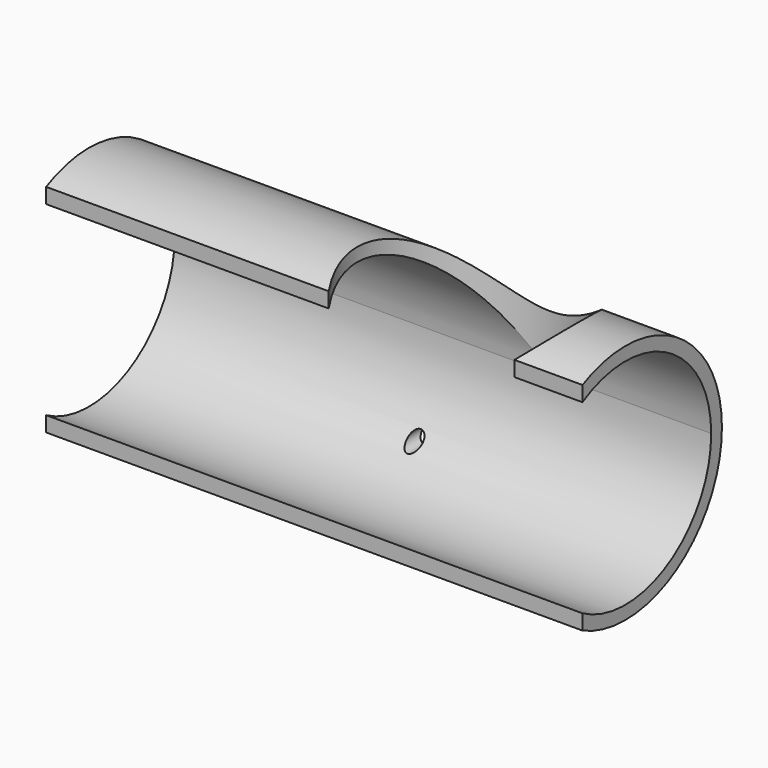
from build123d import *

# Parameters (mm, degrees)
F1_DEPTH = 254
F2_R     = 50.8
F3_DEPTH = 148.336
F4_R     = 3.5438388493
F5_DEPTH = 89.916


with BuildPart() as f1:
    # F0 (on Right) → F1 (new body)
    with BuildSketch(Plane.YZ):
        with BuildLine():
            ThreePointArc((-25.4, -51.1953367017), (30.1206947131, -48.568160867), (57.15, 0))
            ThreePointArc((57.15, 0), (30.1206947131, 48.568160867), (-25.4, 51.1953367017))
            Line((-25.4, 51.1953367017), (-25.4, 43.9940905122))
            ThreePointArc((-25.4, 43.9940905122), (25.4, 43.9940905122), (50.8, 0))
            ThreePointArc((50.8, 0), (25.4, -43.9940905122), (-25.4, -43.9940905122))
            Line((-25.4, -43.9940905122), (-25.4, -51.1953367017))
        make_face()
    extrude(amount=F1_DEPTH)

    # F2 (on Top) → F3 (cut)
    with BuildSketch(Plane.XY):
        with Locations((177.8, 0)):
            Circle(F2_R)
    extrude(amount=F3_DEPTH, mode=Mode.SUBTRACT)

    # F4 (on Front) → F5 (cut)
    with BuildSketch(Plane.XZ):
        with Locations((127, -37.6440905122)):
            Circle(F4_R)
    extrude(amount=-F5_DEPTH, mode=Mode.SUBTRACT)


solid = f1.part
